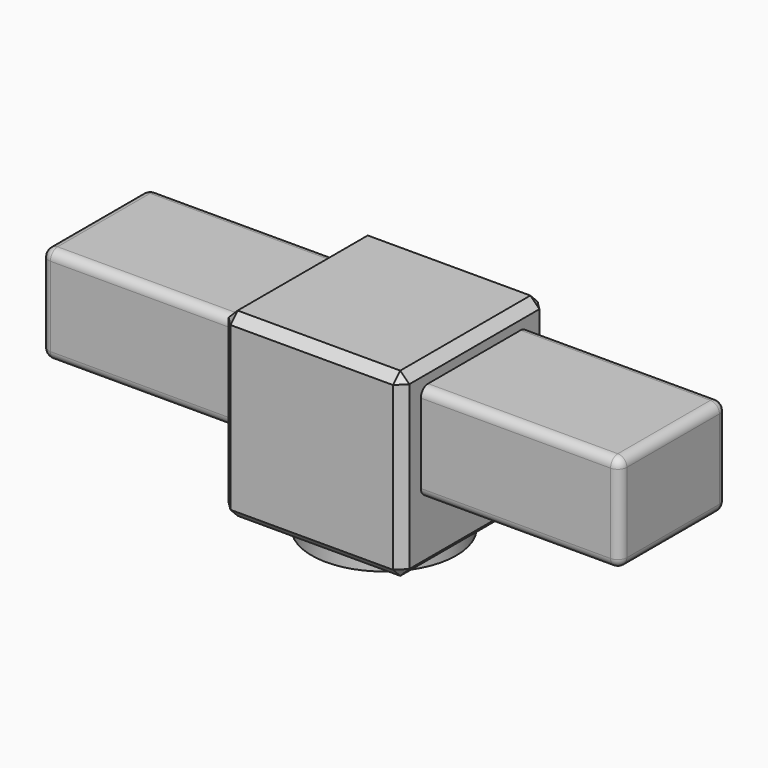
from build123d import *

# Parameters (mm, degrees)
F0_W     = 63.5
F0_H     = 63.5
F1_DEPTH = 63.5
F2_R     = 14.2875
F3_DEPTH = 50.8
F2_R_2   = 25.4
F2_R_3   = 19.05
F4_DEPTH = 6.35
F5_W     = 46.99
F5_H     = 34.29
F6_DEPTH = 101.6
F7_SIZE  = 3.175
F8_R     = 3.175


with BuildPart() as f1:
    # F0 (on Top) → F1 (new body)
    with BuildSketch(Plane.XY):
        Rectangle(F0_W, F0_H)
    extrude(amount=F1_DEPTH)

    # F2 (on Top) → F3 (cut)
    with BuildSketch(Plane.XY):
        Circle(F2_R)
    extrude(amount=F3_DEPTH, mode=Mode.SUBTRACT)

    # F2 (on Top) → F4 (join)
    with BuildSketch(Plane.XY):
        Circle(F2_R_2)
        Circle(F2_R_3, mode=Mode.SUBTRACT)
    extrude(amount=-F4_DEPTH)

    # F5 (on Right) → F6 (join, symmetric)
    with BuildSketch(Plane.YZ):
        with Locations((0, 40.005002)):
            Rectangle(F5_W, F5_H)
    extrude(amount=F6_DEPTH, both=True)

    # F7
    f7_edges = [f1.edges().sort_by_distance(p)[0] for p in [
        (-31.75, -31.75, 31.75),
        (31.75, -31.75, 31.75),
        (0, -31.75, 0),
        (0, -31.75, 63.5),
        (31.75, 0, 63.5),
        (31.75, 0, 0),
        (-31.75, 0, 63.5),
        (0, 31.75, 63.5),
        (-31.75, 0, 0),
        (0, 31.75, 0),
        (-31.75, 31.75, 31.75),
        (31.75, 31.75, 31.75),
    ]]
    chamfer(f7_edges, length=F7_SIZE)

    # F8
    f8_edges = [f1.edges().sort_by_distance(p)[0] for p in [
        (66.675, -23.495, 57.150002),
        (-66.675, -23.495, 57.150002),
        (66.675, 23.495, 57.150002),
        (-66.675, 23.495, 57.150002),
        (-101.6, 0, 57.150002),
        (-101.6, 0, 22.860002),
        (-101.6, -23.495, 40.005002),
        (-101.6, 23.495, 40.005002),
        (66.675, -23.495, 22.860002),
        (-66.675, -23.495, 22.860002),
        (66.675, 23.495, 22.860002),
        (-66.675, 23.495, 22.860002),
        (101.6, 23.495, 40.005002),
        (101.6, 0, 57.150002),
        (101.6, 0, 22.860002),
        (101.6, -23.495, 40.005002),
    ]]
    fillet(f8_edges, radius=F8_R)


solid = f1.part
